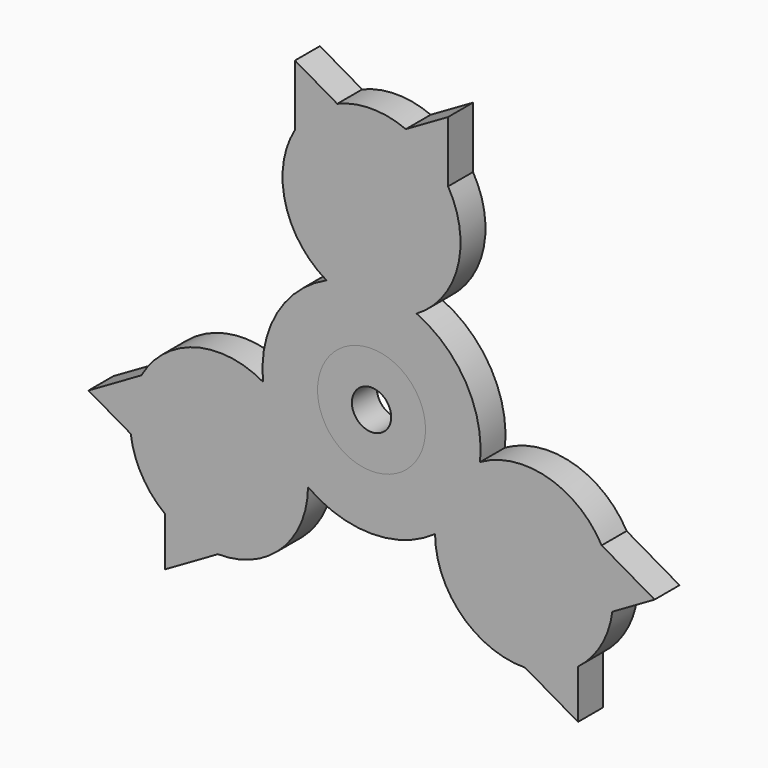
from build123d import *

# Parameters (mm, degrees)
F0_R     = 11
F1_DEPTH = 6.35
F0_R_2   = 4
F2_DEPTH = 6.35


with BuildPart() as f1:
    # F0 (on Front) → F1 (new body)
    with BuildSketch(Plane.XZ):
        with BuildLine():
            ThreePointArc((-15.593167, 45.140772), (-17.561097, 31.357617), (-9.177721, 20.241543))
            ThreePointArc((-9.177721, 20.241543), (-19.247415, 11.1125), (-22.118551, -2.172632))
            ThreePointArc((-22.118551, -2.172632), (-35.937042, -0.470452), (-46.889639, -9.066307))
            ThreePointArc((-46.889639, -9.066307), (-48.877745, -14.487422), (-49.060975, -20.258685))
            ThreePointArc((-49.060975, -20.258685), (-46.780086, -27.008495), (-42.075023, -32.358708))
            ThreePointArc((-42.075023, -32.358708), (-36.985348, -35.085658), (-31.296471, -36.074465))
            ThreePointArc((-31.296471, -36.074465), (-18.375944, -30.887165), (-12.94083, -18.068911))
            ThreePointArc((-12.94083, -18.068911), (0, -22.225), (12.94083, -18.068911))
            ThreePointArc((12.94083, -18.068911), (18.375944, -30.887165), (31.296471, -36.074465))
            ThreePointArc((31.296471, -36.074465), (36.985348, -35.085658), (42.075023, -32.358708))
            ThreePointArc((42.075023, -32.358708), (46.780086, -27.008495), (49.060975, -20.258685))
            ThreePointArc((49.060975, -20.258685), (48.877745, -14.487422), (46.889639, -9.066307))
            ThreePointArc((46.889639, -9.066307), (35.937042, -0.470452), (22.118551, -2.172632))
            ThreePointArc((22.118551, -2.172632), (19.247415, 11.1125), (9.177721, 20.241543))
            ThreePointArc((9.177721, 20.241543), (17.561097, 31.357617), (15.593167, 45.140772))
            ThreePointArc((15.593167, 45.140772), (11.892397, 49.57308), (6.985951, 52.617393))
            ThreePointArc((6.985951, 52.617393), (0, 54.01699), (-6.985951, 52.617393))
            ThreePointArc((-6.985951, 52.617393), (-11.892397, 49.57308), (-15.593167, 45.140772))
        make_face()
        Circle(F0_R, mode=Mode.SUBTRACT)
        with BuildLine():
            Line((-15.593167, 57.586772), (-15.593167, 45.140772))
            ThreePointArc((-15.593167, 45.140772), (-11.892397, 49.57308), (-6.985951, 52.617393))
            Line((-6.985951, 52.617393), (-15.593167, 57.586772))
        make_face()
        with BuildLine():
            ThreePointArc((-49.060975, -20.258685), (-48.877745, -14.487422), (-46.889639, -9.066307))
            Line((-46.889639, -9.066307), (-57.668191, -15.289307))
            Line((-57.668191, -15.289307), (-49.060975, -20.258685))
        make_face()
        with BuildLine():
            Line((15.593167, 57.586772), (6.985951, 52.617393))
            ThreePointArc((6.985951, 52.617393), (11.892397, 49.57308), (15.593167, 45.140772))
            Line((15.593167, 45.140772), (15.593167, 57.586772))
        make_face()
        with BuildLine():
            ThreePointArc((-31.296471, -36.074465), (-36.985348, -35.085658), (-42.075023, -32.358708))
            Line((-42.075023, -32.358708), (-42.075023, -42.297465))
            Line((-42.075023, -42.297465), (-31.296471, -36.074465))
        make_face()
        with BuildLine():
            Line((57.668191, -15.289307), (46.889639, -9.066307))
            ThreePointArc((46.889639, -9.066307), (48.877745, -14.487422), (49.060975, -20.258685))
            Line((49.060975, -20.258685), (57.668191, -15.289307))
        make_face()
        with BuildLine():
            ThreePointArc((42.075023, -32.358708), (36.985348, -35.085658), (31.296471, -36.074465))
            Line((31.296471, -36.074465), (42.075023, -42.297465))
            Line((42.075023, -42.297465), (42.075023, -32.358708))
        make_face()
    extrude(amount=F1_DEPTH)


with BuildPart() as f2:
    # F0 (on Front) → F2 (new body)
    with BuildSketch(Plane.XZ):
        Circle(F0_R)
        Circle(F0_R_2, mode=Mode.SUBTRACT)
    extrude(amount=F2_DEPTH)


solid = Compound([f1.part, f2.part])
